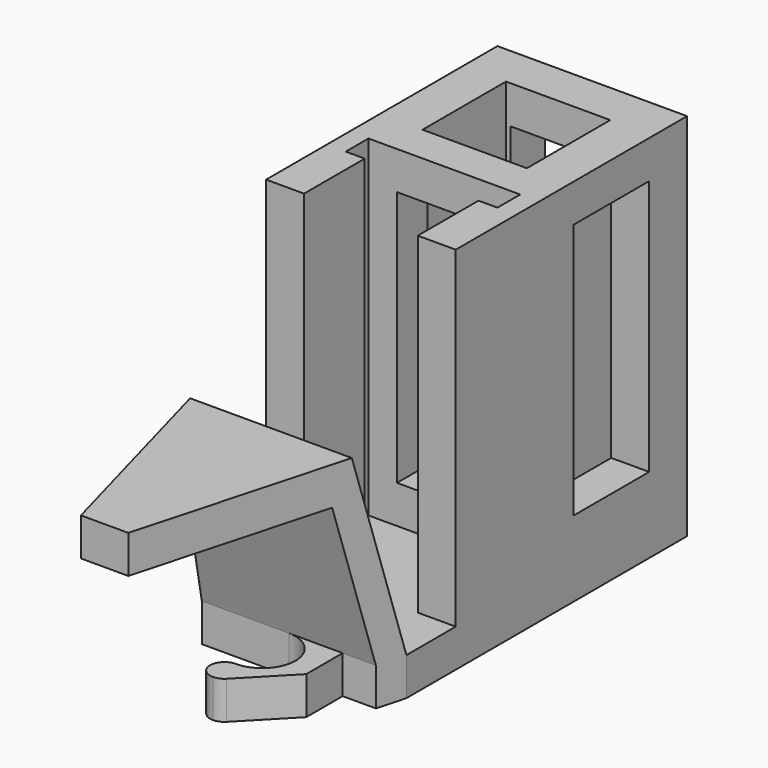
from build123d import *

# Parameters (mm, degrees)
SKETCH002_W             = 50
SKETCH002_H             = 20
PAD001_DEPTH            = 4
SKETCH003_R             = 4
POCKET001_DEPTH         = 2
SKETCH004_R             = 2.4
POCKET002_DEPTH         = 2
SKETCH016_W             = 11
SKETCH016_H             = 11
SKETCH016_W_2           = 33
SKETCH016_H_2           = 20
PAD007_DEPTH            = 35
SKETCH017_W             = 10
SKETCH017_H             = 27
POCKET009_DEPTH         = 20
SKETCH018_W             = 10
SKETCH018_H             = 27
POCKET010_DEPTH         = 4
POCKET011_DEPTH         = 20
POCKET016_DEPTH         = 25
POCKET017_DEPTH         = 4
POCKET018_DEPTH         = 4
BODY002_PLACEMENT_ANGLE = 90.0000000001


with BuildPart() as part:
    # Sketch002 (on Face1 of CopyPocket) → Pad001 (new body)
    with BuildSketch(Plane.XY.offset(8)):
        with Locations((-15, 0)):
            Rectangle(SKETCH002_W, SKETCH002_H)
    extrude(amount=PAD001_DEPTH)

    # Sketch003 (on Face6 of Pad001) → Pocket001 (cut)
    with BuildSketch(Plane.XY.offset(12)):
        Circle(SKETCH003_R)
    extrude(amount=-POCKET001_DEPTH, mode=Mode.SUBTRACT)

    # Sketch004 (on Face8 of Pocket001) → Pocket002 (cut)
    with BuildSketch(Plane.XY.offset(10)):
        Circle(SKETCH004_R)
    extrude(amount=-POCKET002_DEPTH, mode=Mode.SUBTRACT)

    # Sketch016 (on Face5 of Pocket002) → Pad007 (join)
    with BuildSketch(Plane.XY.offset(12)):
        Polygon((10, -10), (10, 10), (-20.5, 10), (-20.5, 6), (-12.5, 6), (-12.5, 8), (-9.5, 8), (-9.5, -8), (-12.5, -8), (-12.5, -6), (-20.5, -6), (-20.5, -10), align=None)
        Rectangle(SKETCH016_W, SKETCH016_H, mode=Mode.SUBTRACT)
        with Locations((-43.5, 0)):
            Rectangle(SKETCH016_W_2, SKETCH016_H_2)
    extrude(amount=PAD007_DEPTH)

    # Sketch017 (on Face7 of Pad007) → Pocket009 (cut)
    with BuildSketch(Plane.YZ.offset(10)):
        with Locations((0, 29.5)):
            Rectangle(SKETCH017_W, SKETCH017_H)
    extrude(amount=-POCKET009_DEPTH, mode=Mode.SUBTRACT)

    # Sketch018 (on Face10 of Pocket009) → Pocket010 (cut)
    with BuildSketch(Plane.XZ.offset(10)):
        with Locations((0, 29.5)):
            Rectangle(SKETCH018_W, SKETCH018_H)
    extrude(amount=-POCKET010_DEPTH, mode=Mode.SUBTRACT)

    # Sketch019 (on Face8 of Pocket010) → Pocket011 (cut)
    with BuildSketch(Plane.XZ.offset(10)):
        Polygon((-27, 12), (-32.3589838486, 32), (-54.2871870789, 32), (-54.2871870789, 28), (-34.2871870789, 28), (-30, 12), (-40, 12), (-60, 12), (-60, 47), (-27, 47), align=None)
    extrude(amount=-POCKET011_DEPTH, mode=Mode.SUBTRACT)

    # Sketch027 (on Face22 of Pocket011) → Pocket016 (cut)
    with BuildSketch(Plane.XY.offset(32)):
        Polygon((-54.2871870789, -10), (-54.2871870789, -2.5), (-27, -10), align=None)
        Polygon((-54.2871870789, 2.5), (-54.2871870789, 10), (-27, 10), align=None)
    extrude(amount=-POCKET016_DEPTH, mode=Mode.SUBTRACT)

    # Sketch028 (on Face1 of Pocket016) → Pocket017 (cut)
    with BuildSketch(Plane(origin=(0, 0, 8), x_dir=(1, 0, 0), z_dir=(0, 0, -1))):
        with BuildLine():
            Line((-39.5440001666, 1.0770625108), (-34.8, 5.6754371773))
            Line((-34.8, 5.6754371773), (-30, 5.6754371773))
            Line((-30, 5.6754371773), (-30, 9.1754371773))
            Line((-30, 9.1754371773), (-40, 6.4268944352))
            Line((-40, 0), (-40, 6.4268944352))
            ThreePointArc((-39.5440001666, 1.0770625108), (-39.8813037772, 0.5848075539), (-40, 0))
        make_face()
    extrude(amount=-POCKET017_DEPTH, mode=Mode.SUBTRACT)

    # Sketch029 (on Face1 of Pocket017) → Pocket018 (cut)
    with BuildSketch(Plane(origin=(0, 0, 8), x_dir=(1, 0, 0), z_dir=(0, 0, -1))):
        with BuildLine():
            ThreePointArc((-40, 0), (-38.5, -1.5), (-37, 0))
            ThreePointArc((-30, 0), (-33.5, 3.5), (-37, 0))
            Line((-30, -9.1754371773), (-30, 0))
            Line((-40, -6.4268944352), (-30, -9.1754371773))
            Line((-40, 0), (-40, -6.4268944352))
        make_face()
    extrude(amount=-POCKET018_DEPTH, mode=Mode.SUBTRACT)


with BuildPart() as part_1:
    # Body002 placement: moved
    add(part.part.rotate(Axis((0, 0, 0), (0, 0, 1)), BODY002_PLACEMENT_ANGLE))


solid = part_1.part
